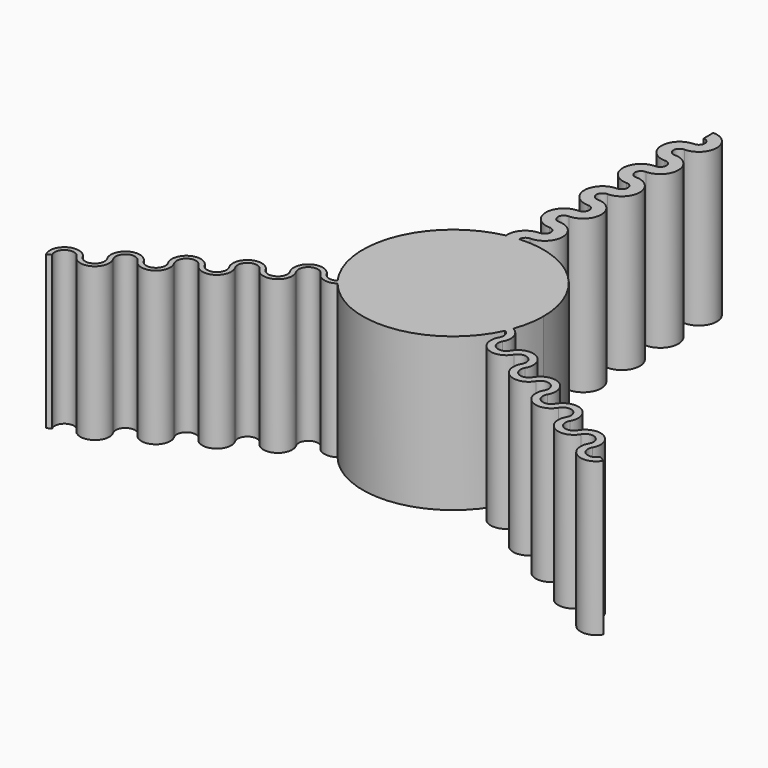
from build123d import *

# Parameters (mm, degrees)
F1_DEPTH = 12.7


with BuildPart() as f1:
    # F0 (on Top) → F1 (new body)
    with BuildSketch(Plane.XY):
        with BuildLine():
            ThreePointArc((7.045173, -2.57207), (7.385418, -1.305987), (7.5, 0))
            ThreePointArc((7.5, 0), (5.123577, 5.47713), (-0.499722, 7.483333))
            ThreePointArc((-0.499722, 7.483333), (-0.99833, 7.433259), (-1.492481, 7.35))
            ThreePointArc((-1.492481, 7.35), (-6.992258, 2.712624), (-6.058809, -4.420501))
            ThreePointArc((-6.058809, -4.420501), (-5.938513, -4.580836), (-5.813975, -4.7379))
            ThreePointArc((-5.813975, -4.7379), (0.948225, -7.439817), (6.816519, -3.128109))
            ThreePointArc((6.816519, -3.128109), (6.93642, -2.852382), (7.045173, -2.57207))
        make_face()
        with BuildLine():
            ThreePointArc((-1.492481, 7.35), (-0.99833, 7.433259), (-0.499722, 7.483333))
            ThreePointArc((-0.499722, 7.483333), (-0.359398, 7.847611), (0, 8))
            ThreePointArc((0, 8), (1.5, 9.5), (0, 11))
            ThreePointArc((0, 11), (-0.5, 11.5), (0, 12))
            ThreePointArc((0, 12), (1.5, 13.5), (0, 15))
            ThreePointArc((0, 15), (-0.5, 15.5), (0, 16))
            ThreePointArc((0, 16), (1.5, 17.5), (0, 19))
            ThreePointArc((0, 19), (-0.5, 19.5), (0, 20))
            ThreePointArc((0, 20), (1.5, 21.5), (0, 23))
            ThreePointArc((0, 23), (-0.5, 23.5), (0, 24))
            ThreePointArc((0, 24), (1.5, 25.5), (0, 27))
            Line((0, 27), (0, 26))
            ThreePointArc((0, 26), (0.5, 25.5), (0, 25))
            ThreePointArc((0, 25), (-1.5, 23.5), (0, 22))
            ThreePointArc((0, 22), (0.5, 21.5), (0, 21))
            ThreePointArc((0, 21), (-1.5, 19.5), (0, 18))
            ThreePointArc((0, 18), (0.5, 17.5), (0, 17))
            ThreePointArc((0, 17), (-1.5, 15.5), (0, 14))
            ThreePointArc((0, 14), (0.5, 13.5), (0, 13))
            ThreePointArc((0, 13), (-1.5, 11.5), (0, 10))
            ThreePointArc((0, 10), (0.5, 9.5), (0, 9))
            ThreePointArc((0, 9), (-1.11243, 8.506231), (-1.492481, 7.35))
        make_face()
        with BuildLine():
            ThreePointArc((7.621024, -4.4), (7.735118, -3.359387), (7.045173, -2.57207))
            ThreePointArc((7.045173, -2.57207), (6.93642, -2.852382), (6.816519, -3.128109))
            ThreePointArc((6.816519, -3.128109), (7.166926, -3.553095), (7.101408, -4.1))
            ThreePointArc((7.101408, -4.1), (7.577241, -5.875833), (9.353074, -5.4))
            ThreePointArc((9.353074, -5.4), (10.309292, -5.143782), (10.56551, -6.1))
            ThreePointArc((10.56551, -6.1), (11.041343, -7.875833), (12.817176, -7.4))
            ThreePointArc((12.817176, -7.4), (13.773394, -7.143782), (14.029612, -8.1))
            ThreePointArc((14.029612, -8.1), (14.505445, -9.875833), (16.281278, -9.4))
            ThreePointArc((16.281278, -9.4), (17.237495, -9.143782), (17.493713, -10.1))
            ThreePointArc((17.493713, -10.1), (17.969546, -11.875833), (19.745379, -11.4))
            ThreePointArc((19.745379, -11.4), (20.701597, -11.143782), (20.957815, -12.1))
            ThreePointArc((20.957815, -12.1), (21.433648, -13.875833), (23.209481, -13.4))
            Line((23.209481, -13.4), (22.689866, -13.1))
            ThreePointArc((22.689866, -13.1), (21.733648, -13.356218), (21.47743, -12.4))
            ThreePointArc((21.47743, -12.4), (21.001597, -10.624167), (19.225764, -11.1))
            ThreePointArc((19.225764, -11.1), (18.269546, -11.356218), (18.013328, -10.4))
            ThreePointArc((18.013328, -10.4), (17.537495, -8.624167), (15.761662, -9.1))
            ThreePointArc((15.761662, -9.1), (14.805445, -9.356218), (14.549227, -8.4))
            ThreePointArc((14.549227, -8.4), (14.073394, -6.624167), (12.297561, -7.1))
            ThreePointArc((12.297561, -7.1), (11.341343, -7.356218), (11.085125, -6.4))
            ThreePointArc((11.085125, -6.4), (10.609292, -4.624167), (8.833459, -5.1))
            ThreePointArc((8.833459, -5.1), (7.877241, -5.356218), (7.621024, -4.4))
        make_face()
        with BuildLine():
            ThreePointArc((-5.813975, -4.7379), (-5.938513, -4.580836), (-6.058809, -4.420501))
            ThreePointArc((-6.058809, -4.420501), (-6.681558, -4.527989), (-7.188011, -4.15))
            ThreePointArc((-7.188011, -4.15), (-8.827241, -3.71077), (-9.266472, -5.35))
            ThreePointArc((-9.266472, -5.35), (-9.559292, -6.44282), (-10.652112, -6.15))
            ThreePointArc((-10.652112, -6.15), (-12.291343, -5.71077), (-12.730573, -7.35))
            ThreePointArc((-12.730573, -7.35), (-13.023394, -8.44282), (-14.116214, -8.15))
            ThreePointArc((-14.116214, -8.15), (-15.755445, -7.71077), (-16.194675, -9.35))
            ThreePointArc((-16.194675, -9.35), (-16.487495, -10.44282), (-17.580316, -10.15))
            ThreePointArc((-17.580316, -10.15), (-19.219546, -9.71077), (-19.658777, -11.35))
            ThreePointArc((-19.658777, -11.35), (-19.951597, -12.44282), (-21.044417, -12.15))
            ThreePointArc((-21.044417, -12.15), (-22.683648, -11.71077), (-23.122878, -13.35))
            Line((-23.122878, -13.35), (-22.776468, -13.15))
            ThreePointArc((-22.776468, -13.15), (-22.483648, -12.05718), (-21.390827, -12.35))
            ThreePointArc((-21.390827, -12.35), (-19.751597, -12.78923), (-19.312367, -11.15))
            ThreePointArc((-19.312367, -11.15), (-19.019546, -10.05718), (-17.926726, -10.35))
            ThreePointArc((-17.926726, -10.35), (-16.287495, -10.78923), (-15.848265, -9.15))
            ThreePointArc((-15.848265, -9.15), (-15.555445, -8.05718), (-14.462624, -8.35))
            ThreePointArc((-14.462624, -8.35), (-12.823394, -8.78923), (-12.384163, -7.15))
            ThreePointArc((-12.384163, -7.15), (-12.091343, -6.05718), (-10.998523, -6.35))
            ThreePointArc((-10.998523, -6.35), (-9.359292, -6.78923), (-8.920062, -5.15))
            ThreePointArc((-8.920062, -5.15), (-8.627241, -4.05718), (-7.534421, -4.35))
            ThreePointArc((-7.534421, -4.35), (-6.759123, -4.920615), (-5.813975, -4.7379))
        make_face()
    extrude(amount=F1_DEPTH)


solid = f1.part
